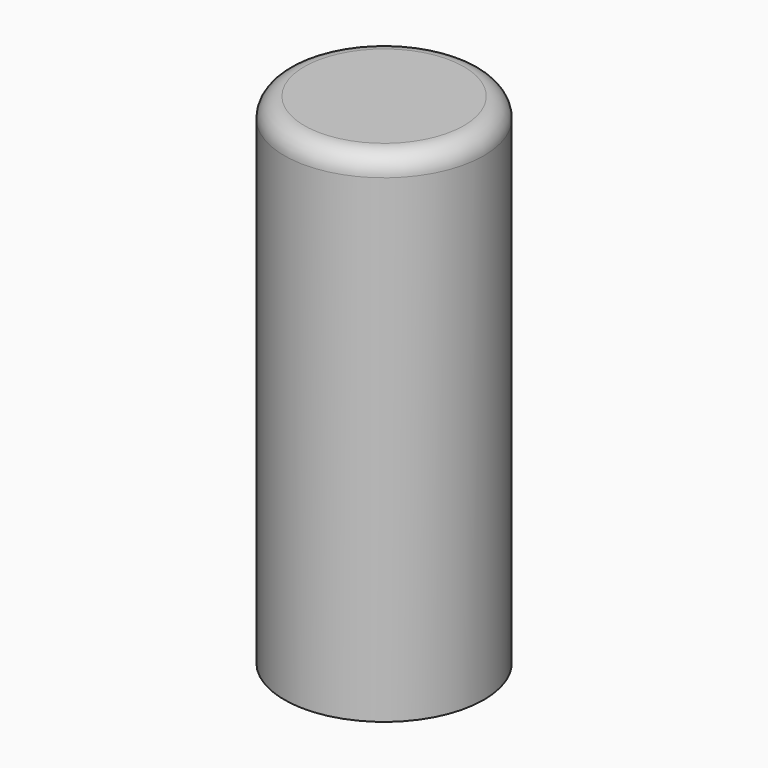
from build123d import *

# Parameters (mm, degrees)
F0_W = 25.4
F0_H = 127
F2_R = 5.08


with BuildPart() as f1:
    # F0 (on Front) → F1 (revolve)
    with BuildSketch(Plane.XZ):
        with Locations((12.7, 63.5)):
            Rectangle(F0_W, F0_H)
    revolve(axis=Axis((0, 0, 63.5), (0, 0, 1)))

    # F2
    f2_edges = [f1.edges().sort_by_distance(p)[0] for p in [
        (-25.4, 0, 127),
    ]]
    fillet(f2_edges, radius=F2_R)


solid = f1.part
